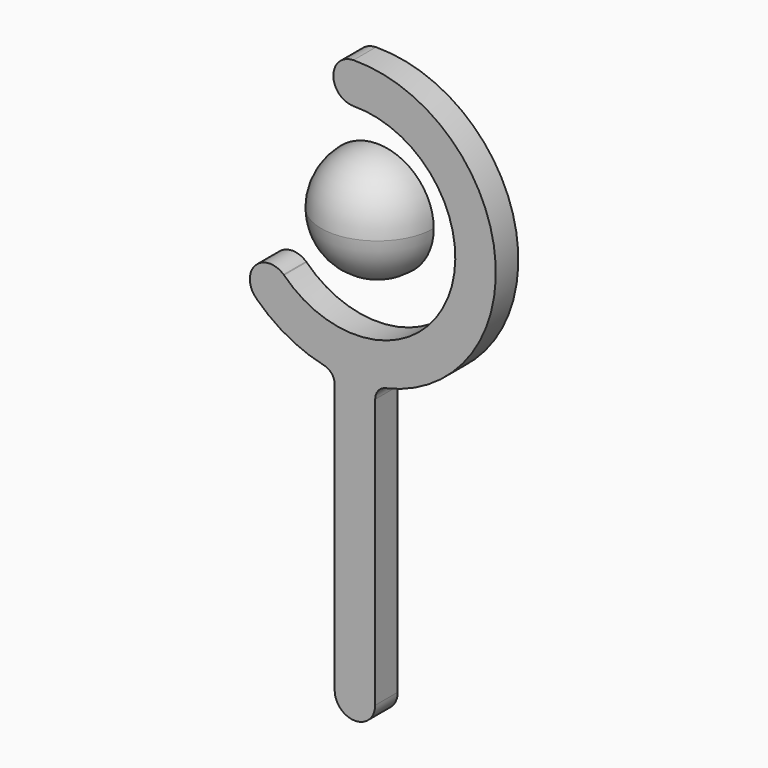
from build123d import *

# Parameters (mm, degrees)
F1_ANGLE = 180
F2_DEPTH = 6.35


with BuildPart() as f1:
    # F0 (on Front) → F1 (revolve)
    with BuildSketch(Plane.XZ):
        with BuildLine():
            ThreePointArc((0, 38.7350011945), (8.9802561211, 42.4547450734), (12.7, 51.4350011945))
            ThreePointArc((12.7, 51.4350011945), (8.9802561211, 60.4152573155), (0, 64.1350011945))
            Line((0, 64.1350011945), (0, 38.7350011945))
        make_face()
    revolve(axis=Axis((0, 0, 51.4350011945), (0, 0, -1)), revolution_arc=F1_ANGLE)


with BuildPart() as f2:
    # F0 (on Front) → F2 (new body)
    with BuildSketch(Plane.XZ):
        with BuildLine():
            ThreePointArc((-15.9945500643, 35.4043171941), (-16.0470698305, 35.4568908201), (-16.0994167897, 35.5096365106))
            Line((-16.0994167897, 35.5096365106), (-16.1180047523, 35.4890712232))
            Line((-16.1180047523, 35.4890712232), (-22.2185593271, 28.7395602124))
            Line((-22.2185593271, 28.7395602124), (-22.2371472897, 28.718994925))
            ThreePointArc((-22.2371472897, 28.718994925), (-15.1741101543, 23.5019734058), (-6.953257291, 20.4162991994))
            ThreePointArc((-6.953257291, 20.4162991994), (-5.2406321994, 19.3471268836), (-4.5719619, 17.4421087273))
            Line((-4.5719619, 17.4421087273), (-4.5719619, -43.3374655447))
            Line((-4.5719619, -43.3374655447), (4.5719619, -43.3374655447))
            Line((4.5719619, -43.3374655447), (4.5719619, 17.4421087273))
            ThreePointArc((4.5719619, 17.4421087273), (5.2406321994, 19.3471268836), (6.953257291, 20.4162991994))
            ThreePointArc((6.953257291, 20.4162991994), (31.5771390817, 55.0945022307), (-0.3253269501, 83.2218195756))
            Line((-0.3253269501, 83.2218195756), (-0.3253345038, 83.1988321598))
            Line((-0.3253345038, 83.1988321598), (-0.3283241191, 74.100882851))
            Line((-0.3283241191, 74.100882851), (-0.3283316729, 74.0778954351))
            ThreePointArc((-0.3283316729, 74.0778954351), (20.9885809559, 42.9327702674), (-15.9945500643, 35.4043171941))
        make_face()
        with BuildLine():
            Line((-22.2185593271, 28.7395602124), (-16.1180047523, 35.4890712232))
            ThreePointArc((-16.1180047523, 35.4890712232), (-22.5430375451, 35.1645930052), (-22.2185593271, 28.7395602124))
        make_face()
        with BuildLine():
            ThreePointArc((-0.3253345038, 83.1988321598), (-4.8758039659, 78.651352313), (-0.3283241191, 74.100882851))
            Line((-0.3283241191, 74.100882851), (-0.3253345038, 83.1988321598))
        make_face()
        with BuildLine():
            Line((4.5719619, -43.3374655447), (-4.5719619, -43.3374655447))
            ThreePointArc((-4.5719619, -43.3374655447), (0, -47.9094274447), (4.5719619, -43.3374655447))
        make_face()
    extrude(amount=F2_DEPTH)


solid = Compound([f1.part, f2.part])
